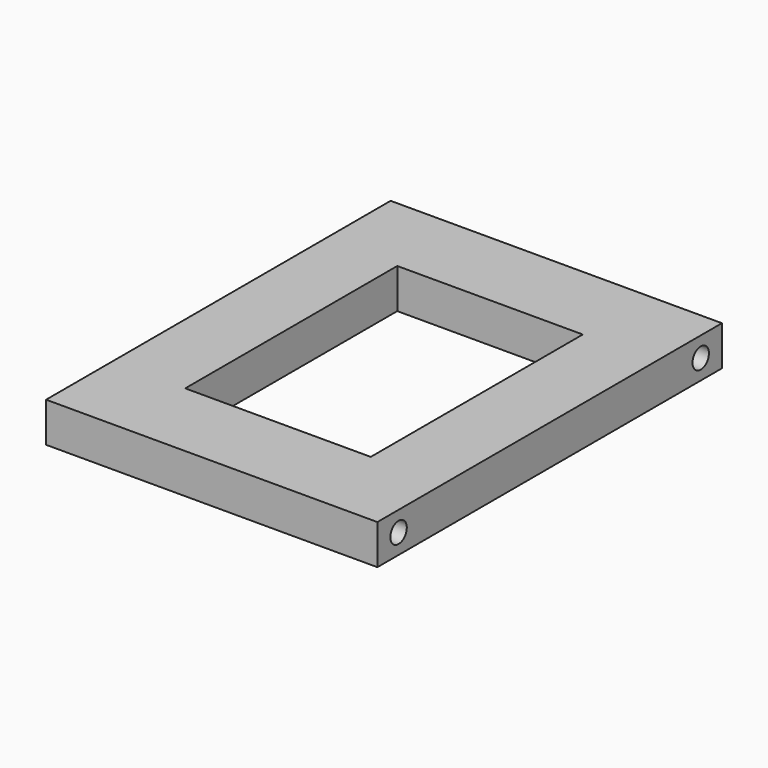
from build123d import *

# Parameters (mm, degrees)
F0_W     = 50
F0_H     = 65
F1_DEPTH = 6
F2_W     = 28
F2_H     = 40
F3_DEPTH = 25
F4_R     = 1.55
F5_DEPTH = 10
F6_R     = 1.55
F7_DEPTH = 10


with BuildPart() as f1:
    # F0 (on Top) → F1 (new body)
    with BuildSketch(Plane.XY):
        Rectangle(F0_W, F0_H)
    extrude(amount=F1_DEPTH)

    # F2 (on face) → F3 (cut)
    with BuildSketch(Plane.XY.offset(6)):
        Rectangle(F2_W, F2_H)
    extrude(amount=-F3_DEPTH, mode=Mode.SUBTRACT)

    # F4 (on face) → F5 (cut)
    with BuildSketch(Plane.YZ.offset(25)):
        with BuildLine():
            ThreePointArc((-30.05, 3), (-28.5, 1.45), (-26.95, 3))
            ThreePointArc((-26.95, 3), (-28.5, 4.55), (-30.05, 3))
        make_face()
        with Locations((28.5, 3)):
            Circle(F4_R)
    extrude(amount=-F5_DEPTH, mode=Mode.SUBTRACT)

    # F6 (on face) → F7 (cut)
    with BuildSketch(Plane(origin=(-25, 0, 0), x_dir=(0, -1, 0), z_dir=(-1, 0, 0))):
        with BuildLine():
            ThreePointArc((-30.05, 3), (-28.5, 1.45), (-26.95, 3))
            ThreePointArc((-26.95, 3), (-28.5, 4.55), (-30.05, 3))
        make_face()
        with Locations((28.5, 3)):
            Circle(F6_R)
    extrude(amount=-F7_DEPTH, mode=Mode.SUBTRACT)


solid = f1.part
